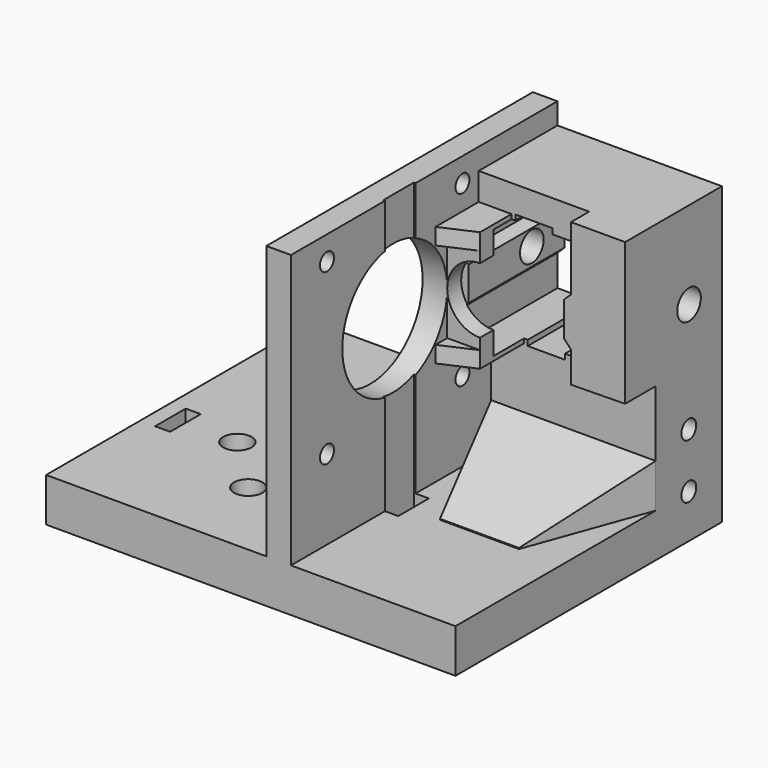
from build123d import *

# Parameters (mm, degrees)
SKETCH007_W         = 74.914368
SKETCH007_H         = 60.949894
SKETCH007_R         = 2.6
SKETCH007_W_2       = 2.75
SKETCH007_H_2       = 7
PAD005_DEPTH        = 8
SKETCH009_W         = 40
SKETCH009_H         = 15.144356
PAD006_DEPTH        = 40.1
POCKET004_DEPTH     = 50
PAD007_DEPTH        = 50
PAD008_DEPTH        = 7
PAD009_DEPTH        = 7
SKETCH012_R         = 2.7
POCKET005_DEPTH     = 1000
SKETCH014_R         = 12
SKETCH014_R_2       = 1.6
POCKET006_DEPTH     = 5
SKETCH015_W         = 30.1
SKETCH015_H         = 16
PAD010_DEPTH        = 21.5
PAD010_TAPER        = 20
PAD010_FACE47_W     = 4.5
PAD010_FACE47_H     = 9.9
PAD011_DEPTH        = 16
PAD011_FACE21_W     = 0.855644
PAD011_FACE21_H     = 4.5
POCKET007_DEPTH     = 20
SKETCH016_R         = 1.7
POCKET008_DEPTH     = 18
LINEARPATTERN_COUNT = 2
LINEARPATTERN_PITCH = 10
PAD015_DEPTH        = 6
PAD016_DEPTH        = 3
PAD017_DEPTH        = 3
SKETCH027_R         = 6
POCKET010_DEPTH     = 3.2
POCKET010_FACE26_W  = 22.144356
POCKET010_FACE26_H  = 9.9
PAD018_DEPTH        = 6
PAD_DEPTH           = 18
SKETCH_W            = 6
SKETCH_H            = 0.836678
PAD019_DEPTH        = 7
SKETCH029_W         = 6
SKETCH029_H         = 0.8
PAD020_DEPTH        = 10


with BuildPart() as part:
    # Sketch007 → Pad005 (new body)
    with BuildSketch(Plane.XY):
        with Locations((12.457184, 5.474947)):
            Rectangle(SKETCH007_W, SKETCH007_H)
        with Locations((0, 10)):
            Circle(SKETCH007_R, mode=Mode.SUBTRACT)
        with Locations((10, 0)):
            Circle(SKETCH007_R, mode=Mode.SUBTRACT)
        with Locations((-10, 0)):
            Circle(SKETCH007_R, mode=Mode.SUBTRACT)
        with Locations((0, -10)):
            Circle(SKETCH007_R, mode=Mode.SUBTRACT)
        with Locations((20.875, 0)):
            Rectangle(SKETCH007_W_2, SKETCH007_H_2, mode=Mode.SUBTRACT)
        with Locations((-20.875, 0)):
            Rectangle(SKETCH007_W_2, SKETCH007_H_2, mode=Mode.SUBTRACT)
    extrude(amount=PAD005_DEPTH)

    # Sketch009 (on Face18 of Pad005) → Pad006 (join)
    with BuildSketch(Plane.XY.offset(8)):
        with Locations((29.914368, 28.377716)):
            Rectangle(SKETCH009_W, SKETCH009_H)
    extrude(amount=PAD006_DEPTH)

    # Sketch010 (on Face19 of Pad006) → Pocket004 (cut)
    with BuildSketch(Plane.XZ.offset(-20.805538)):
        Polygon((19.814368, 48.1), (19.814368, 42.426645), (21.140392, 41.059428), (21.140392, 34.859428), (19.814368, 33.573355), (19.814368, 27.9), (26.496015, 27.9), (26.496015, 26.9), (33.332721, 26.9), (33.332721, 27.9), (40.014368, 27.9), (40.014368, 33.573355), (38.689334, 34.965349), (38.689334, 41.165349), (40.014368, 42.426645), (40.014368, 48.1), align=None)
    extrude(amount=-POCKET004_DEPTH, mode=Mode.SUBTRACT)

    # Sketch011 (on Face5 of Pocket004) → Pad007 (join)
    with BuildSketch(Plane.XY.offset(8)):
        Polygon((15.314368, 20.805538), (15.314368, -25), (19.814368, -25), (19.814368, -3.5), (19.5, -3.5), (19.5, 3.5), (19.814368, 3.5), (19.814368, 20.805538), align=None)
    extrude(amount=PAD007_DEPTH)

    # Sketch013 (on Face34 of Pad007) → Pad008 (join)
    with BuildSketch(Plane.XZ.offset(-20.805538)):
        Polygon((40.014368, 48.1), (40.014368, 42.426645), (38.689334, 41.165349), (38.689334, 34.965349), (40.014368, 33.573355), (40.014368, 27.9), (49.914368, 28.05), (49.914368, 48.1), align=None)
    extrude(amount=PAD008_DEPTH)

    # Pad008 Face35 → Pad009 (add)
    with BuildSketch(Plane(origin=(20.438426, 20.805538, 37.980906), x_dir=(-1, 0, 0), z_dir=(0, -1, 0))):
        Polygon((0.624058, 4.407551), (-0.701966, 3.121478), (-0.701966, -3.078522), (0.624058, -4.445739), align=None)
    extrude(amount=PAD009_DEPTH)

    # Sketch012 (on Face5 of Pad007) → Pocket005 (cut)
    with BuildSketch(Plane.YZ.offset(49.914368)):
        with Locations((28.429679, 38.1)):
            Circle(SKETCH012_R)
    extrude(amount=-POCKET005_DEPTH, mode=Mode.SUBTRACT)

    # Sketch014 (on Face25 of Pocket005) → Pocket006 (cut)
    with BuildSketch(Plane.YZ.offset(19.814368)):
        with Locations((-1.267852, 38.1)):
            Circle(SKETCH014_R)
        with Locations((-16.767852, 53.6)):
            Circle(SKETCH014_R_2)
        with Locations((14.232148, 53.6)):
            Circle(SKETCH014_R_2)
        with Locations((14.232148, 22.6)):
            Circle(SKETCH014_R_2)
        with Locations((-16.767852, 22.6)):
            Circle(SKETCH014_R_2)
    extrude(amount=-POCKET006_DEPTH, mode=Mode.SUBTRACT)

    # Sketch015 (on Face41 of Pocket006) → Pad010 (join)
    with BuildSketch(Plane.XZ.offset(-20.805538)):
        with Locations((34.864368, 8)):
            Rectangle(SKETCH015_W, SKETCH015_H)
    extrude(amount=PAD010_DEPTH, taper=PAD010_TAPER)

    # Pad010 Face47 → Pad011 (add)
    with BuildSketch(Plane(origin=(17.564368, 20.805538, 53.05), x_dir=(1, 0, 0), z_dir=(0, 1, 0))):
        Rectangle(PAD010_FACE47_W, PAD010_FACE47_H)
    extrude(amount=PAD011_DEPTH)

    # Pad011 Face21 → Pocket007 (cut)
    with BuildSketch(Plane(origin=(17.564368, 36.377716, 48.1), x_dir=(0, -1, 0), z_dir=(0, 0, -1))):
        Rectangle(PAD011_FACE21_W, PAD011_FACE21_H)
    extrude(amount=-POCKET007_DEPTH, mode=Mode.SUBTRACT)

    # Sketch016 (on Face5 of Pocket007) → Pocket008 (cut)
    with BuildSketch(Plane.YZ.offset(49.914368)):
        with Locations((28.377716, 8)):
            Circle(SKETCH016_R)
    pocket008 = extrude(amount=-POCKET008_DEPTH, mode=Mode.SUBTRACT)

    # LinearPattern: Pocket008 ×2
    with Locations(*[(0, 0, i * LINEARPATTERN_PITCH) for i in range(1, LINEARPATTERN_COUNT)]):
        add(pocket008, mode=Mode.SUBTRACT)

    # Sketch021 (on Face11 of LinearPattern) → Pad015 (join)
    with BuildSketch(Plane.YZ.offset(19.814368)):
        Polygon((10.732148, 38.1), (10.732148, 49.1), (13.805538, 49.1), (13.805538, 27.1), (10.732148, 27.1), align=None)
    extrude(amount=PAD015_DEPTH)

    # Sketch025 (on Face62 of Pad015) → Pad016 (join)
    with BuildSketch(Plane(origin=(0, 0, 27.1), x_dir=(1, 0, 0), z_dir=(0, 0, -1))):
        Polygon((25.814368, -10.732148), (19.814368, -10.732148), (19.814368, -8.062612), align=None)
    extrude(amount=-PAD016_DEPTH)

    # Sketch026 (on Face59 of Pad016) → Pad017 (join)
    with BuildSketch(Plane.XY.offset(49.1)):
        Polygon((19.814368, 10.732148), (25.814368, 10.732148), (19.814368, 8.062148), align=None)
    extrude(amount=-PAD017_DEPTH)

    # Sketch027 (on Face61 of Pad017) → Pocket010 (cut)
    with BuildSketch(Plane.XZ.offset(-10.732148)):
        with Locations((25.814368, 38.1)):
            Circle(SKETCH027_R)
    extrude(amount=-POCKET010_DEPTH, mode=Mode.SUBTRACT)

    # Pocket010 Face26 → Pad018 (add)
    with BuildSketch(Plane(origin=(44.964368, 24.877716, 48.1), x_dir=(0, 1, 0), z_dir=(0, 0, 1))):
        Rectangle(POCKET010_FACE26_W, POCKET010_FACE26_H)
    extrude(amount=PAD018_DEPTH)

    # Sketch028 (on Face68 of Pad018) → Pad (join)
    with BuildSketch(Plane(origin=(0, 35.949894, 0), x_dir=(-1, 0, 0), z_dir=(0, 1, 0))):
        Polygon((-40.014368, 48.263322), (-33.332721, 48.263322), (-33.332721, 49.263322), (-26.496015, 49.263322), (-26.496015, 48.263322), (-19.814368, 48.263322), (-19.814368, 54.1), (-40.014368, 54.1), align=None)
    extrude(amount=-PAD_DEPTH)

    # Sketch (on Face49 of Pad) → Pad019 (join)
    with BuildSketch(Plane.XZ.offset(-17.949894)):
        with Locations((22.814368, 48.681661)):
            Rectangle(SKETCH_W, SKETCH_H)
    extrude(amount=PAD019_DEPTH)

    # Sketch029 (on Face63 of Pad019) → Pad020 (join)
    with BuildSketch(Plane.XZ.offset(-20.805538)):
        with Locations((22.814368, 27.5)):
            Rectangle(SKETCH029_W, SKETCH029_H)
    extrude(amount=PAD020_DEPTH)


solid = part.part
